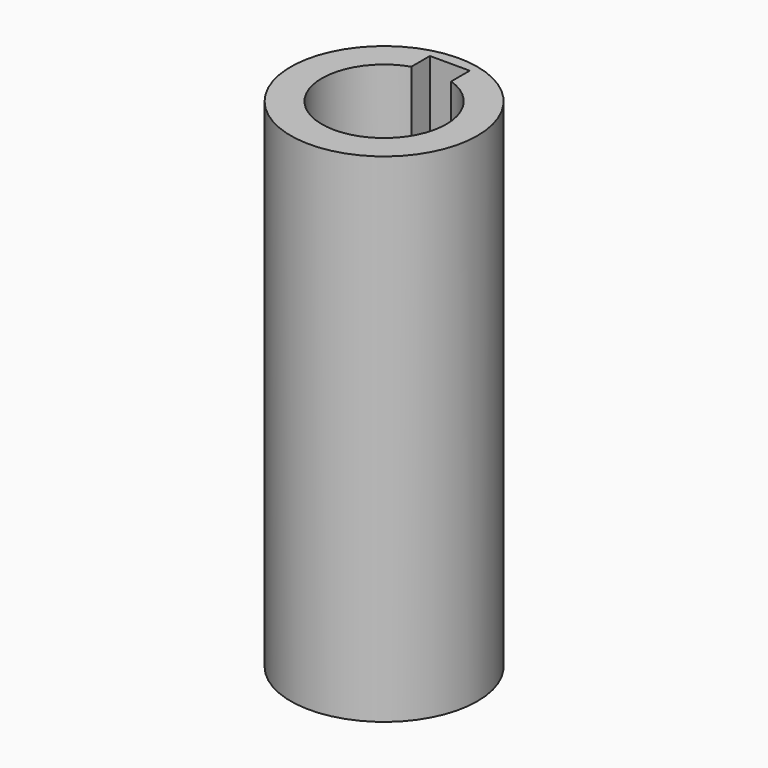
from build123d import *

# Parameters (mm, degrees)
F0_R     = 18.75028
F0_R_2   = 12.49934
F1_DEPTH = 99.9998
F3_DEPTH = 100.0008


with BuildPart() as f1:
    # F0 (on Top) → F1 (new body)
    with BuildSketch(Plane.XY):
        Circle(F0_R)
        Circle(F0_R_2, mode=Mode.SUBTRACT)
    extrude(amount=F1_DEPTH)

    # F2 (on face) → F3 (cut, through all)
    with BuildSketch(Plane.XY.offset(99.9998)):
        with BuildLine():
            ThreePointArc((-4.0005, 11.841854), (-7.288, -10.154731), (12.49934, 0))
            ThreePointArc((12.49934, 0), (10.154731, 7.288), (4.0005, 11.841854))
            Line((4.0005, 11.841854), (4.0005, 8.49884))
            Line((4.0005, 8.49884), (-4.0005, 8.49884))
            Line((-4.0005, 8.49884), (-4.0005, 11.841854))
        make_face()
        with BuildLine():
            ThreePointArc((-4.0005, 11.841854), (0, 12.49934), (4.0005, 11.841854))
            Line((4.0005, 11.841854), (4.0005, 16.49984))
            Line((4.0005, 16.49984), (-4.0005, 16.49984))
            Line((-4.0005, 16.49984), (-4.0005, 11.841854))
        make_face()
    extrude(amount=-F3_DEPTH, mode=Mode.SUBTRACT)


solid = f1.part
